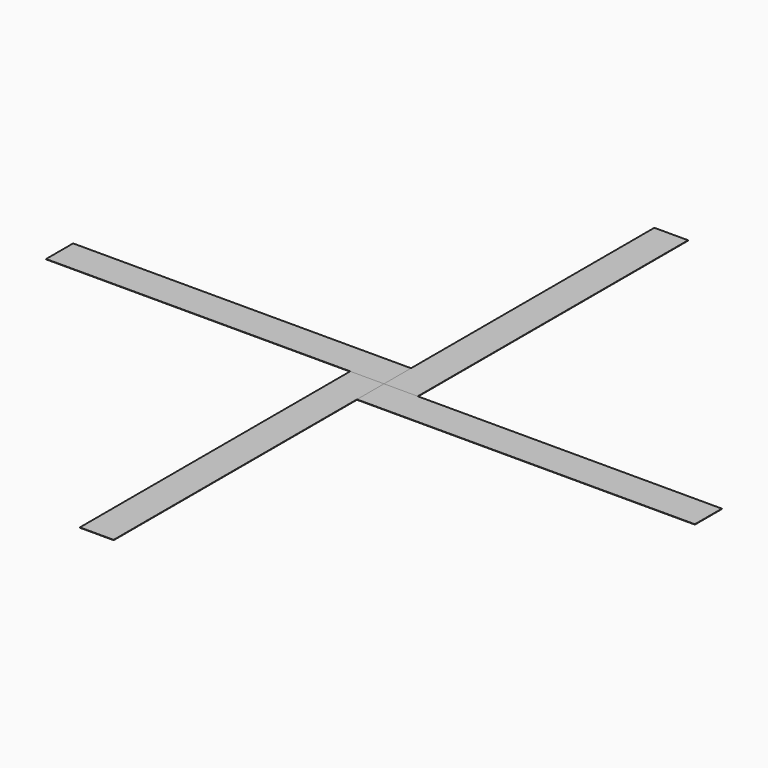
from build123d import *

# Parameters (mm, degrees)
F1_W     = 10
F1_H     = 0.1
F2_DEPTH = 100
F3_COUNT = 4


with BuildPart() as f2:
    # F1 (on Front) → F2 (new body)
    with BuildSketch(Plane.XZ):
        with Locations((-97.2710395212, 29.1103622608)):
            Rectangle(F1_W, F1_H)
    extrude(amount=-F2_DEPTH)


with BuildPart() as f3_1:
    # F3: instance of F2
    add(f2.part.rotate(Axis((-102.2710395212, 0, 29.1103622608), (0, 0, -1)), 1 * 360 / F3_COUNT))


with BuildPart() as f3_2:
    # F3: instance of F2
    add(f2.part.rotate(Axis((-102.2710395212, 0, 29.1103622608), (0, 0, -1)), 2 * 360 / F3_COUNT))


with BuildPart() as f3_3:
    # F3: instance of F2
    add(f2.part.rotate(Axis((-102.2710395212, 0, 29.1103622608), (0, 0, -1)), 3 * 360 / F3_COUNT))


solid = Compound([f2.part, f3_1.part, f3_2.part, f3_3.part])
